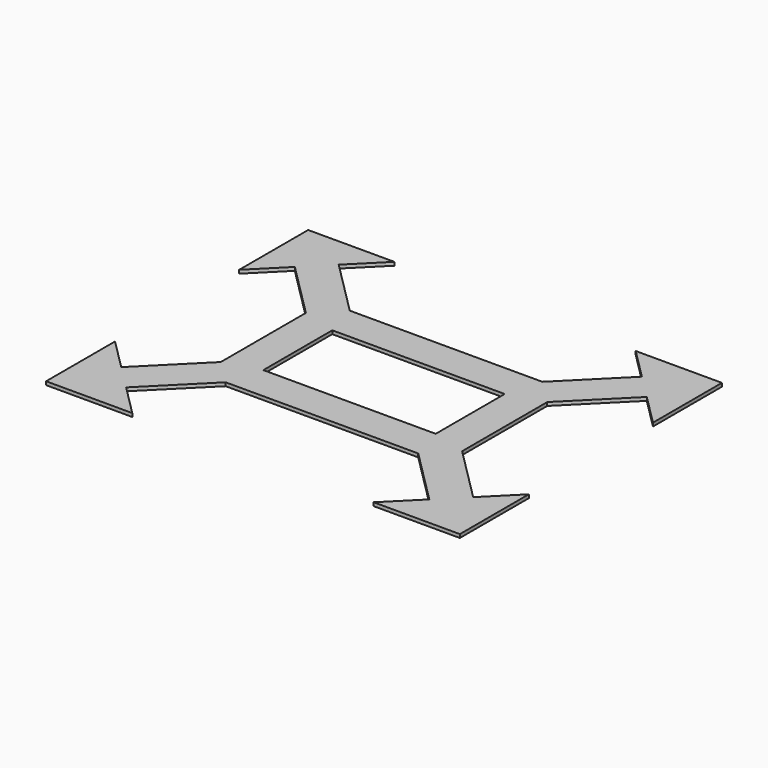
from build123d import *

# Parameters (mm, degrees)
F0_W     = 50
F0_H     = 25
F1_DEPTH = 1


with BuildPart() as f1:
    # F0 (on Top) → F1 (new body)
    with BuildSketch(Plane.XY):
        Polygon((-1.401728, 69.634167), (-26.401728, 69.634167), (-26.401728, 44.634167), (-17.437262, 53.598633), (-10.366194, 60.669701), align=None)
        Polygon((5.669339, 44.634167), (-10.366194, 60.669701), (-17.437262, 53.598633), (-1.401728, 37.563099), (-1.401728, 44.634167), align=None)
        Polygon((61.527204, 44.634167), (5.669339, 44.634167), (-1.401728, 44.634167), (-1.401728, 37.563099), (-1.401728, 6.705235), (-1.401728, -0.365833), (5.669339, -0.365833), (61.527204, -0.365833), (68.598272, -0.365833), (68.598272, 6.705235), (68.598272, 37.563099), (68.598272, 44.634167), align=None)
        with Locations((33.598272, 22.134167)):
            Rectangle(F0_W, F0_H, mode=Mode.SUBTRACT)
        Polygon((77.562738, 60.669701), (61.527204, 44.634167), (68.598272, 44.634167), (68.598272, 37.563099), (84.633806, 53.598633), align=None)
        Polygon((-1.401728, -0.365833), (-1.401728, 6.705235), (-17.437262, -9.330299), (-10.366194, -16.401367), (5.669339, -0.365833), align=None)
        Polygon((68.598272, 69.634167), (77.562738, 60.669701), (84.633806, 53.598633), (93.598272, 44.634167), (93.598272, 69.634167), align=None)
        Polygon((-10.366194, -16.401367), (-17.437262, -9.330299), (-26.401728, -0.365833), (-26.401728, -25.365833), (-1.401728, -25.365833), align=None)
        Polygon((84.633806, -9.330299), (68.598272, 6.705235), (68.598272, -0.365833), (61.527204, -0.365833), (77.562738, -16.401367), align=None)
        Polygon((93.598272, -0.365833), (84.633806, -9.330299), (77.562738, -16.401367), (68.598272, -25.365833), (93.598272, -25.365833), align=None)
    extrude(amount=F1_DEPTH)


solid = f1.part
